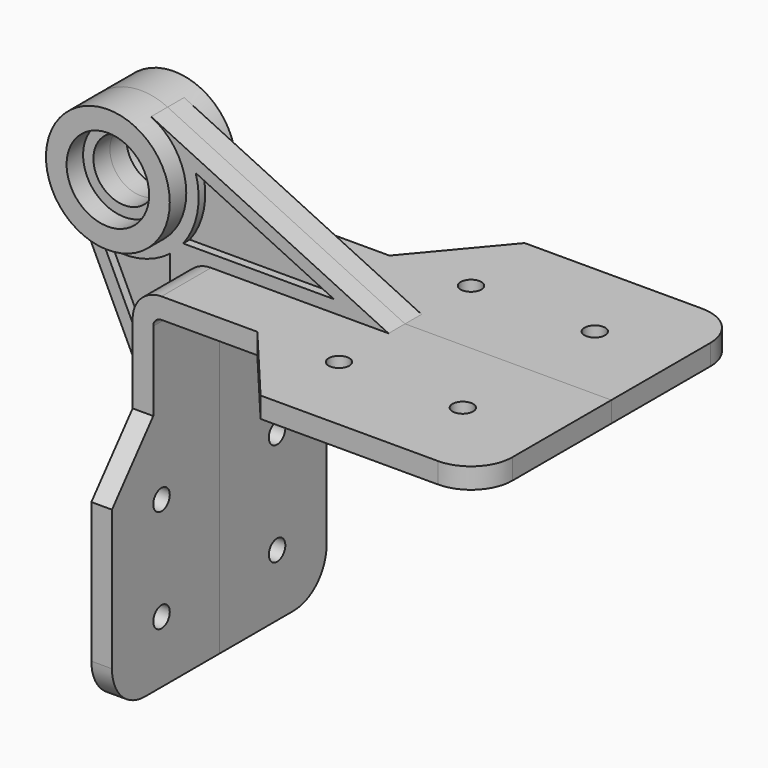
from build123d import *

# Parameters (mm, degrees)
F4_DEPTH  = 40
F5_DEPTH  = 10
F6_DEPTH  = 10
F7_R      = 10
F8_R      = 2.5
F10_DEPTH = 100.001
F9_R      = 2.5
F11_DEPTH = 85.001
F12_DEPTH = 5
F13_DEPTH = 3
F0_R      = 10
F0_R_2    = 7.5
F14_DEPTH = 10
F15_R     = 10
F15_R_2   = 7.5
F16_DEPTH = 5
F19_D     = 4.2
F19_DEPTH = 10
F19_TIP   = 1.2618073


with BuildPart() as f4:
    # F0 (on Front) → F4 (new body)
    with BuildSketch(Plane.XZ):
        with BuildLine():
            Line((0, -50), (0, -85))
            Line((0, -85), (5, -85))
            Line((5, -85), (5, -7))
            ThreePointArc((5, -7), (5.5857864376, -5.5857864376), (7, -5))
            Line((7, -5), (100, -5))
            Line((100, -5), (100, 0))
            Line((100, 0), (50, 0))
            Line((50, 0), (7, 0))
            ThreePointArc((7, 0), (2.0502525317, -2.0502525317), (0, -7))
            Line((0, -7), (0, -50))
        make_face()
    extrude(amount=F4_DEPTH)

    # F2 (on Right) → F5 (cut)
    with BuildSketch(Plane.YZ):
        Polygon((-20, -26.1649281481), (-20, 0), (-40, 0), (-40, -85), (-32.5, -85), (-32.5, -41.0618480555), align=None)
    extrude(amount=F5_DEPTH, mode=Mode.SUBTRACT)

    # F3 (on Top) → F6 (cut)
    with BuildSketch(Plane.XY):
        Polygon((30.2180073765, -20), (0, -20), (0, -40), (47, -40), align=None)
    extrude(amount=-F6_DEPTH, mode=Mode.SUBTRACT)

    # F7
    f7_edges = [f4.edges().sort_by_distance(p)[0] for p in [
        (2.5, -32.5, -85),
        (100, -40, -2.5),
    ]]
    fillet(f7_edges, radius=F7_R)

    # F8 (on Right) → F10 (cut, through all)
    with BuildSketch(Plane.YZ):
        with Locations((-17.5, -70)):
            Circle(F8_R)
        with Locations((-17.5, -45)):
            Circle(F8_R)
    extrude(amount=F10_DEPTH, mode=Mode.SUBTRACT)

    # F9 (on Top) → F11 (cut, through all)
    with BuildSketch(Plane.XY):
        with Locations((50, -20)):
            Circle(F9_R)
        with Locations((80, -20)):
            Circle(F9_R)
    extrude(amount=-F11_DEPTH, mode=Mode.SUBTRACT)

    # F0 (on Front) → F12 (join)
    with BuildSketch(Plane.XZ):
        with BuildLine():
            Line((-27.5303153895, 7.5246185085), (0, -50))
            Line((0, -50), (0, -7))
            ThreePointArc((0, -7), (2.0502525317, -2.0502525317), (7, 0))
            Line((7, 0), (50, 0))
            Line((50, 0), (-7.5246185085, 27.5303153895))
            ThreePointArc((-7.5246185085, 27.5303153895), (-1.3088471294, 21.9959138824), (1, 14))
            ThreePointArc((1, 14), (-10.6799646721, -0.6279651839), (-27.5303153895, 7.5246185085))
        make_face()
        with BuildLine():
            Line((-3, -36.782099822), (-19.0324950336, -3.2821871804))
            ThreePointArc((-19.0324950336, -3.2821871804), (-10.6526660041, -3.686021461), (-3, -0.2478068488))
            Line((-3, -0.2478068488), (-3, -36.782099822))
        make_face(mode=Mode.SUBTRACT)
        with BuildLine():
            ThreePointArc((0.2478068488, 3), (3.686021461, 10.6526660041), (3.2821871804, 19.0324950336))
            Line((3.2821871804, 19.0324950336), (36.782099822, 3))
            Line((36.782099822, 3), (0.2478068488, 3))
        make_face(mode=Mode.SUBTRACT)
    extrude(amount=F12_DEPTH)

    # F0 (on Front) → F13 (join)
    with BuildSketch(Plane.XZ):
        with BuildLine():
            Line((36.782099822, 3), (3.2821871804, 19.0324950336))
            ThreePointArc((3.2821871804, 19.0324950336), (3.686021461, 10.6526660041), (0.2478068488, 3))
            Line((0.2478068488, 3), (36.782099822, 3))
        make_face()
        with BuildLine():
            ThreePointArc((-3, -0.2478068488), (-10.6526660041, -3.686021461), (-19.0324950336, -3.2821871804))
            Line((-19.0324950336, -3.2821871804), (-3, -36.782099822))
            Line((-3, -36.782099822), (-3, -0.2478068488))
        make_face()
    extrude(amount=F13_DEPTH)

    # F0 (on Front) → F14 (join)
    with BuildSketch(Plane.XZ):
        with BuildLine():
            ThreePointArc((-7.5246185085, 27.5303153895), (-24.6066017178, 24.6066017178), (-27.5303153895, 7.5246185085))
            ThreePointArc((-27.5303153895, 7.5246185085), (-10.6799646721, -0.6279651839), (1, 14))
            ThreePointArc((1, 14), (-1.3088471294, 21.9959138824), (-7.5246185085, 27.5303153895))
        make_face()
        with Locations((-14, 14)):
            Circle(F0_R, mode=Mode.SUBTRACT)
        with Locations((-14, 14)):
            Circle(F0_R)
        with Locations((-14, 14)):
            Circle(F0_R_2, mode=Mode.SUBTRACT)
    extrude(amount=F14_DEPTH)

    # F15 (on face) → F16 (cut)
    with BuildSketch(Plane.XZ.offset(10)):
        with Locations((-14, 14)):
            Circle(F15_R)
        with Locations((-14, 14)):
            Circle(F15_R_2, mode=Mode.SUBTRACT)
    extrude(amount=-F16_DEPTH, mode=Mode.SUBTRACT)

    # F17: F4 across plane


with BuildPart() as f4_1:
    add(f4.part)
    add(f4.part.mirror(Plane.XZ))

    # F19
    with Locations(Plane(origin=(-24.6066017178, 0, 24.6066017178), x_dir=(0, -1, 0), z_dir=(-0.7071067812, 0, 0.7071067812))):
        with Locations((0, 0)):
            Hole(F19_D / 2, depth=F19_DEPTH)
            with Locations((0, 0, -(F19_DEPTH + F19_TIP / 2))):  # 118° drill point
                Cone(0, F19_D / 2, F19_TIP, mode=Mode.SUBTRACT)


solid = f4_1.part
